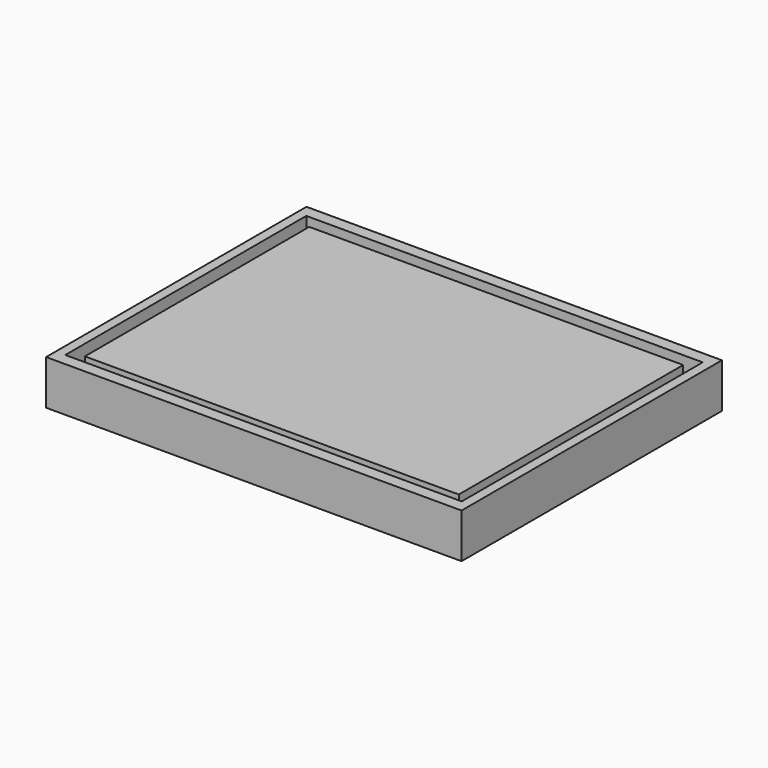
from build123d import *

# Parameters (mm, degrees)
F0_W     = 93.103454
F0_H     = 72.931036
F0_W_2   = 88.836216
F0_H_2   = 67.500002
F1_DEPTH = 5
F0_W_3   = 83.793112
F0_H_3   = 62.844828
F2_DEPTH = 1
F3_DEPTH = 4.6


with BuildPart() as f1:
    # F0 (on Top) → F1 (new body, symmetric)
    with BuildSketch(Plane.XY):
        Rectangle(F0_W, F0_H)
        Rectangle(F0_W_2, F0_H_2, mode=Mode.SUBTRACT)
    extrude(amount=F1_DEPTH, both=True)

    # F0 (on Top) → F2 (join)
    with BuildSketch(Plane.XY):
        Rectangle(F0_W_2, F0_H_2)
        Rectangle(F0_W_3, F0_H_3, mode=Mode.SUBTRACT)
    extrude(amount=F2_DEPTH)

    # F0 (on Top) → F3 (join)
    with BuildSketch(Plane.XY):
        Rectangle(F0_W_3, F0_H_3)
    extrude(amount=F3_DEPTH)


solid = f1.part
